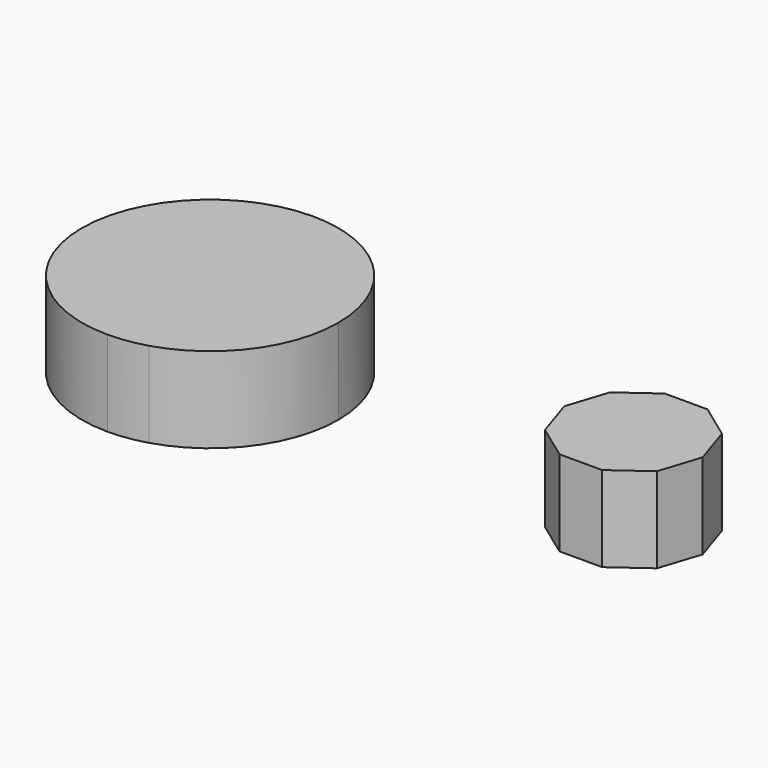
from build123d import *

# Parameters (mm, degrees)
F1_DEPTH = 12.7


with BuildPart() as f1:
    # F0 (on Top) → F1 (new body, symmetric)
    with BuildSketch(Plane.XY):
        with BuildLine():
            Line((10.429538, 36.644709), (0, 38.1))
            ThreePointArc((0, 38.1), (-38.1, 0), (0, -38.1))
            Line((0, -38.1), (11.00242, -36.476797))
            ThreePointArc((11.00242, -36.476797), (30.584328, -22.720231), (38.1, 0))
            ThreePointArc((38.1, 0), (30.405389, 22.959144), (10.429538, 36.644709))
        make_face()
        Polygon((119.431412, -19.54329), (125.781412, -19.54329), (132.131412, -19.54329), (142.405927, -12.078418), (146.330443, 0), (142.405927, 12.078418), (132.131412, 19.54329), (119.431412, 19.54329), (109.156896, 12.078418), (105.23238, 0), (109.156896, -12.078418), align=None)
        with BuildLine():
            ThreePointArc((10.429538, 36.644709), (5.265291, 37.734423), (0, 38.1))
            Line((0, 38.1), (10.429538, 36.644709))
        make_face()
        with BuildLine():
            Line((11.00242, -36.476797), (0, -38.1))
            ThreePointArc((0, -38.1), (5.560756, -37.692015), (11.00242, -36.476797))
        make_face()
    extrude(amount=F1_DEPTH, both=True)


solid = f1.part
